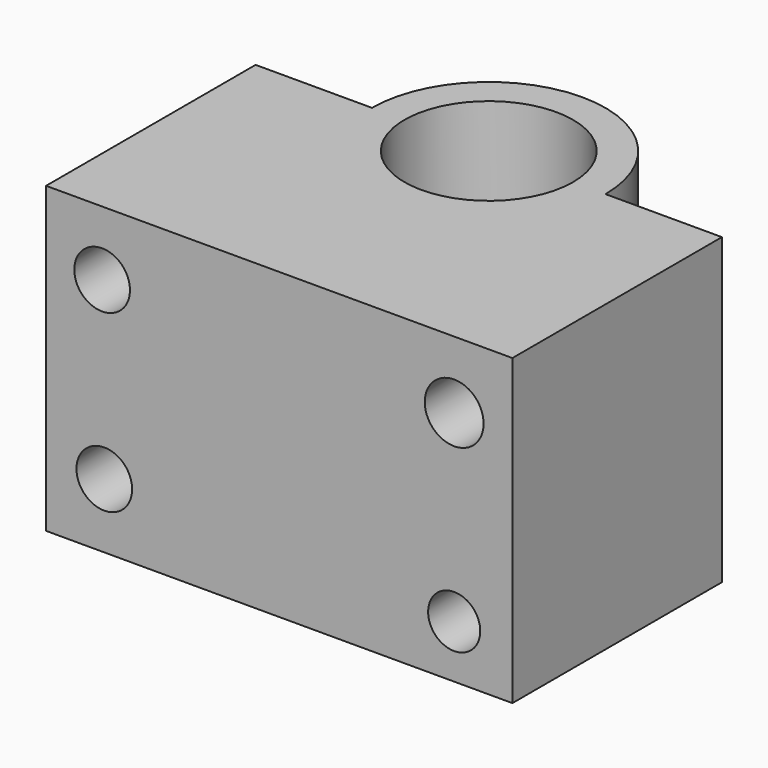
from build123d import *

# Parameters (mm, degrees)
F1_DEPTH = 58.928
F2_R     = 16.356515
F3_DEPTH = 79.502
F4_R     = 5.399917
F5_DEPTH = 98.044
F6_R     = 5.056805
F6_R_2   = 5.705972
F7_DEPTH = 93.726


with BuildPart() as f1:
    # F0 (on Top) → F1 (new body)
    with BuildSketch(Plane.XY):
        with BuildLine():
            Line((45.224381, -25.4), (45.224381, 25.4))
            Line((45.224381, 25.4), (22.640265, 25.4))
            ThreePointArc((22.640265, 25.4), (0, 48.040265), (-22.640265, 25.4))
            Line((-22.640265, 25.4), (-45.224381, 25.4))
            Line((-45.224381, 25.4), (-45.224381, -25.4))
            Line((-45.224381, -25.4), (45.224381, -25.4))
        make_face()
    extrude(amount=F1_DEPTH)

    # F2 (on face) → F3 (cut)
    with BuildSketch(Plane.XY.offset(58.928)):
        with Locations((0, 25.4)):
            Circle(F2_R)
    extrude(amount=-F3_DEPTH, mode=Mode.SUBTRACT)

    # F4 (on face) → F5 (cut)
    with BuildSketch(Plane(origin=(0, 25.4, 0), x_dir=(-1, 0, 0), z_dir=(0, 1, 0))):
        with Locations((33.932323, 12.529076)):
            Circle(F4_R)
        with Locations((34.354472, 46.398924)):
            Circle(F4_R)
    extrude(amount=-F5_DEPTH, mode=Mode.SUBTRACT)

    # F6 (on face) → F7 (cut)
    with BuildSketch(Plane(origin=(0, 25.4, 0), x_dir=(-1, 0, 0), z_dir=(0, 1, 0))):
        with Locations((-33.932323, 10.271089)):
            Circle(F6_R)
        with Locations((-33.932323, 45.897149)):
            Circle(F6_R_2)
    extrude(amount=-F7_DEPTH, mode=Mode.SUBTRACT)


solid = f1.part
